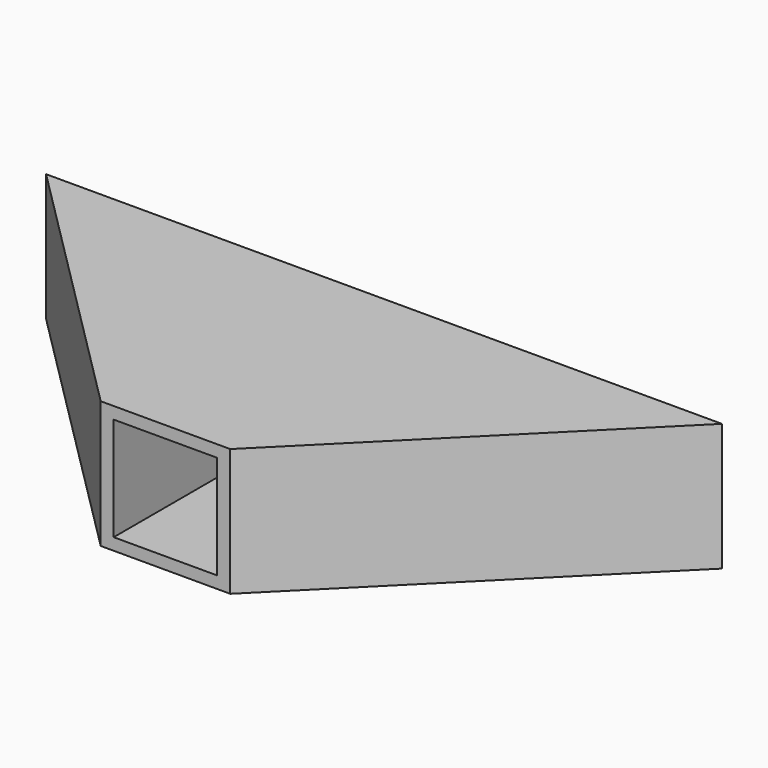
from build123d import *

# Parameters (mm, degrees)
F1_DEPTH = 16
F3_START = -1.5
F3_DEPTH = 13
F4_SIZE  = 11.5
F5_W     = 13
F5_H     = 13
F6_DEPTH = 32


with BuildPart() as f1:
    # F0 (on Top) → F1 (new body)
    with BuildSketch(Plane.XY):
        Polygon((-42.4264068712, 42.4264068712), (0, 0), (42.4264068712, 42.4264068712), align=None)
    extrude(amount=F1_DEPTH)

    # F2 (on face) → F3 (cut)
    with BuildSketch(Plane.XY.offset(16).offset(F3_START)):
        Polygon((-51.2700945749, 53.0700945749), (-15.5563491861, 17.3563491861), (-6.3639610307, 26.5487373415), (-42.0777064195, 62.2624827303), align=None)
        Polygon((6.3639610307, 26.5487373415), (15.5563491861, 17.3563491861), (49.0367116487, 50.8367116487), (39.8443234933, 60.0290998041), align=None)
    extrude(amount=-F3_DEPTH, mode=Mode.SUBTRACT)

    # F4
    f4_edges = [f1.edges().sort_by_distance(p)[0] for p in [
        (0, 0, 8),
    ]]
    chamfer(f4_edges, length=F4_SIZE)

    # F5 (on face) → F6 (cut)
    with BuildSketch(Plane.XZ.offset(-8.1317279836)):
        with Locations((0, 8)):
            Rectangle(F5_W, F5_H)
    extrude(amount=-F6_DEPTH, mode=Mode.SUBTRACT)


solid = f1.part
